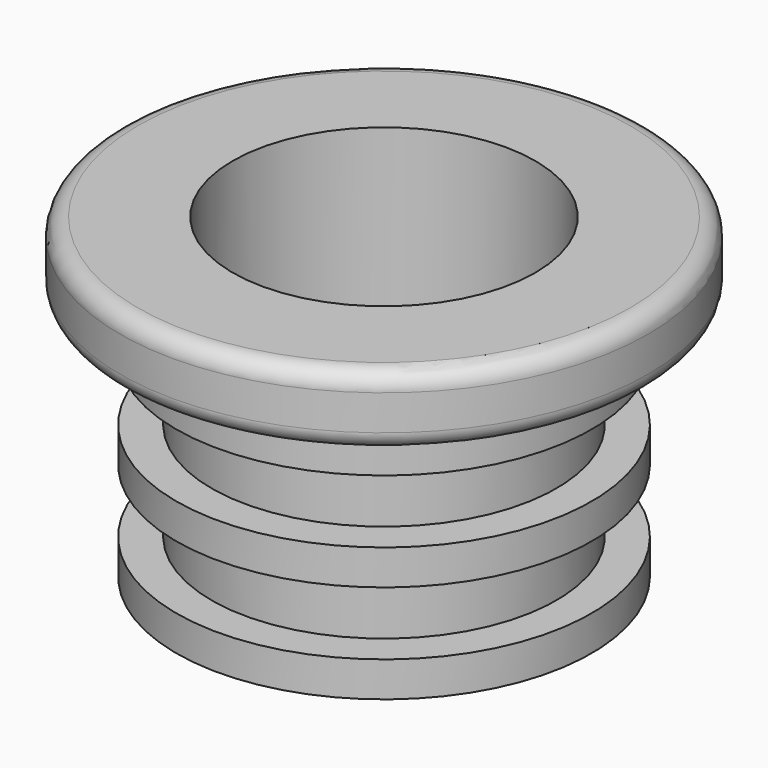
from build123d import *

# Parameters (mm, degrees)
F2_R = 0.5


with BuildPart() as f1:
    # F0 (on Front) → F1 (revolve)
    with BuildSketch(Plane.XZ):
        Polygon((-4.3, 0), (-4.3, 9), (-7.5, 9), (-7.5, 7), (-5.9, 7), (-5.9, 5.6), (-4.9, 5.6), (-4.9, 3.8), (-5.9, 3.8), (-5.9, 2.8), (-4.9, 2.8), (-4.9, 1), (-5.9, 1), (-5.9, 0), align=None)
    revolve(axis=Axis((0, 0, 0.482091), (0, 0, -1)))

    # F2
    f2_edges = [f1.edges().sort_by_distance(p)[0] for p in [
        (7.5, 0, 9),
        (7.5, 0, 7),
    ]]
    fillet(f2_edges, radius=F2_R)


solid = f1.part
